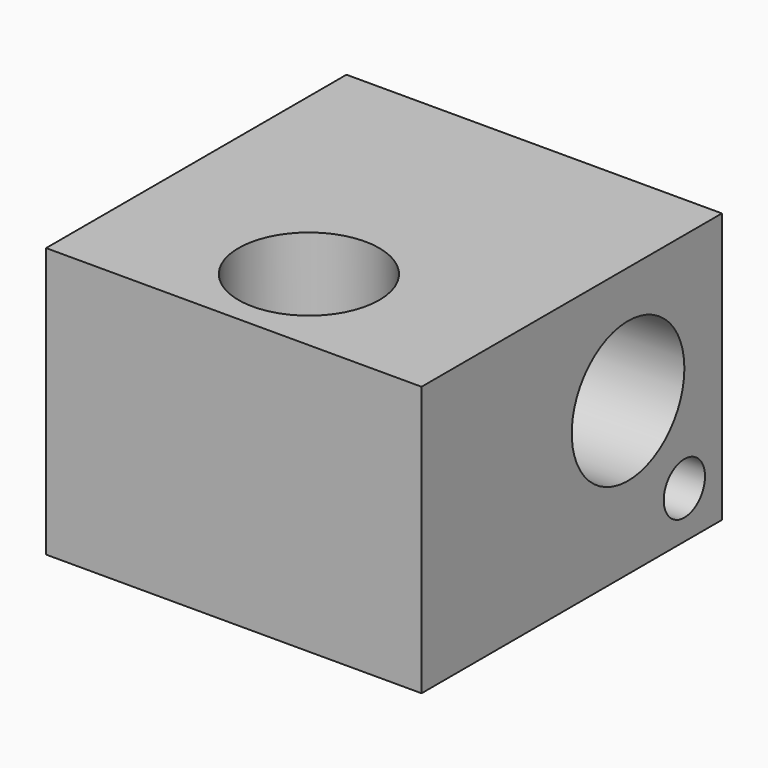
from build123d import *

# Parameters (mm, degrees)
F0_W     = 16
F0_H     = 16
F1_DEPTH = 11.5
F2_R     = 3
F3_DEPTH = 25
F4_R     = 3
F4_R_2   = 1.1
F5_DEPTH = 16.001


with BuildPart() as f1:
    # F0 (on Top) → F1 (new body)
    with BuildSketch(Plane.XY):
        Rectangle(F0_W, F0_H)
    extrude(amount=F1_DEPTH)

    # F2 (on face) → F3 (cut)
    with BuildSketch(Plane.XY.offset(11.5)):
        with Locations((0, -4)):
            Circle(F2_R)
    extrude(amount=-F3_DEPTH, mode=Mode.SUBTRACT)

    # F4 (on face) → F5 (cut, through all)
    with BuildSketch(Plane.YZ.offset(8)):
        with Locations((3, 6.5)):
            Circle(F4_R)
        with Locations((6, 2)):
            Circle(F4_R_2)
    extrude(amount=-F5_DEPTH, mode=Mode.SUBTRACT)


solid = f1.part
